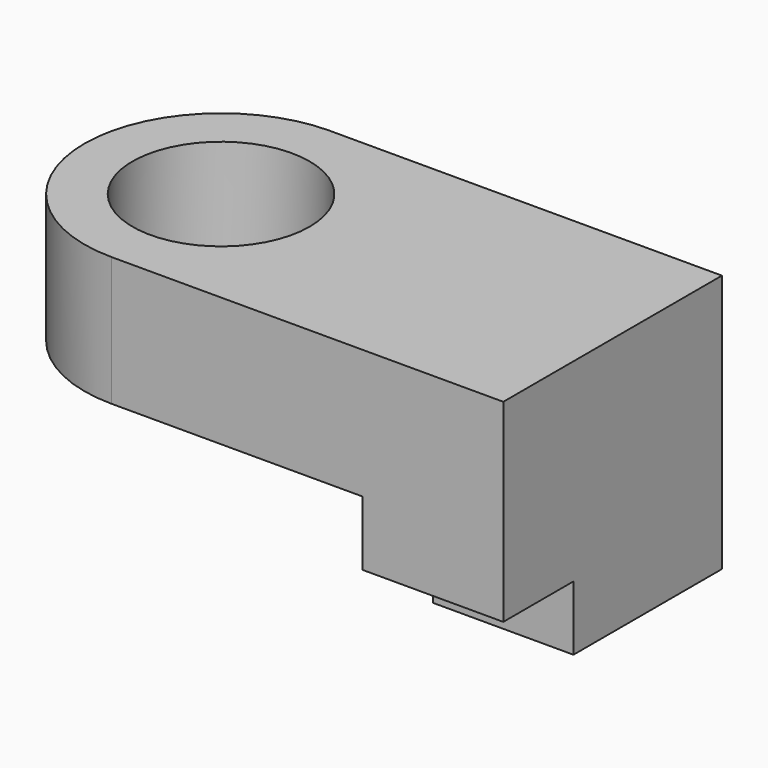
from build123d import *

# Parameters (mm, degrees)
F0_R     = 17.4093828925
F1_DEPTH = 25.4
F2_W     = 27.6633873582
F2_H     = 53.7356156856
F3_DEPTH = 25.4
F4_W     = 27.6633873582
F4_H     = 17.2435138375
F5_DEPTH = 12.7


with BuildPart() as f1:
    # F0 (on Top) → F1 (new body)
    with BuildSketch(Plane.XY):
        with BuildLine():
            ThreePointArc((-62.1633082628, 0), (-54.3854373577, -19.1652168316), (-35.2955013514, -27.1260682493))
            Line((-35.2955013514, -27.1260682493), (41.6988097131, -27.1260682493))
            Line((41.6988097131, -27.1260682493), (41.6988097131, 26.6095474362))
            Line((41.6988097131, 26.6095474362), (-35.6965139508, 26.6095474362))
            ThreePointArc((-35.6965139508, 26.6095474362), (-54.3456505922, 18.6914592057), (-62.1633082628, 0))
        make_face()
        with Locations((-35.2949523061, -0.2570371656)):
            Circle(F0_R, mode=Mode.SUBTRACT)
    extrude(amount=F1_DEPTH)

    # F2 (on face) → F3 (join)
    with BuildSketch(Plane(origin=(0, 0, 0), x_dir=(1, 0, 0), z_dir=(0, 0, -1))):
        with Locations((27.867116034, 0.2582604066)):
            Rectangle(F2_W, F2_H)
    extrude(amount=F3_DEPTH)

    # F4 (on face) → F5 (cut)
    with BuildSketch(Plane(origin=(0, 0, -25.4), x_dir=(1, 0, 0), z_dir=(0, 0, -1))):
        with Locations((27.867116034, 18.5043113306)):
            Rectangle(F4_W, F4_H)
    extrude(amount=-F5_DEPTH, mode=Mode.SUBTRACT)


solid = f1.part
